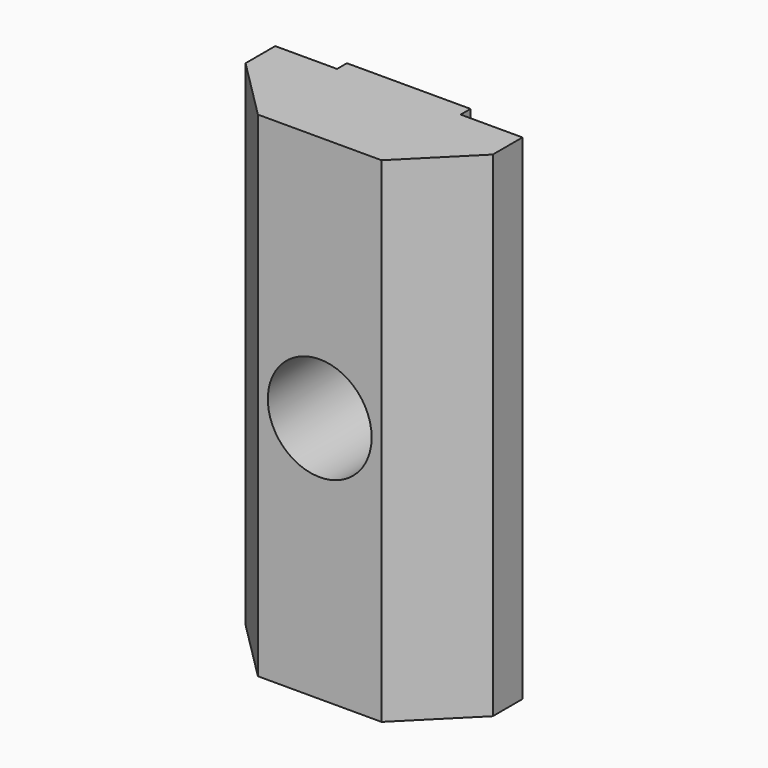
from build123d import *

# Parameters (mm, degrees)
PAD_DEPTH    = 10
SKETCH001_R  = 2.1
POCKET_DEPTH = 5


with BuildPart() as part:
    # Sketch → Pad (new body, symmetric)
    with BuildSketch(Plane.XY):
        Polygon((-5, 4), (-2.5, 4), (-2.5, 4.5), (2.5, 4.5), (2.5, 4), (5, 4), (5, 2.5), (2.5, 0), (-2.5, 0), (-5, 2.5), align=None)
    extrude(amount=PAD_DEPTH, both=True)

    # Sketch001 → Pocket (cut)
    with BuildSketch(Plane.XZ):
        Circle(SKETCH001_R)
    extrude(amount=-POCKET_DEPTH, mode=Mode.SUBTRACT)


solid = part.part
